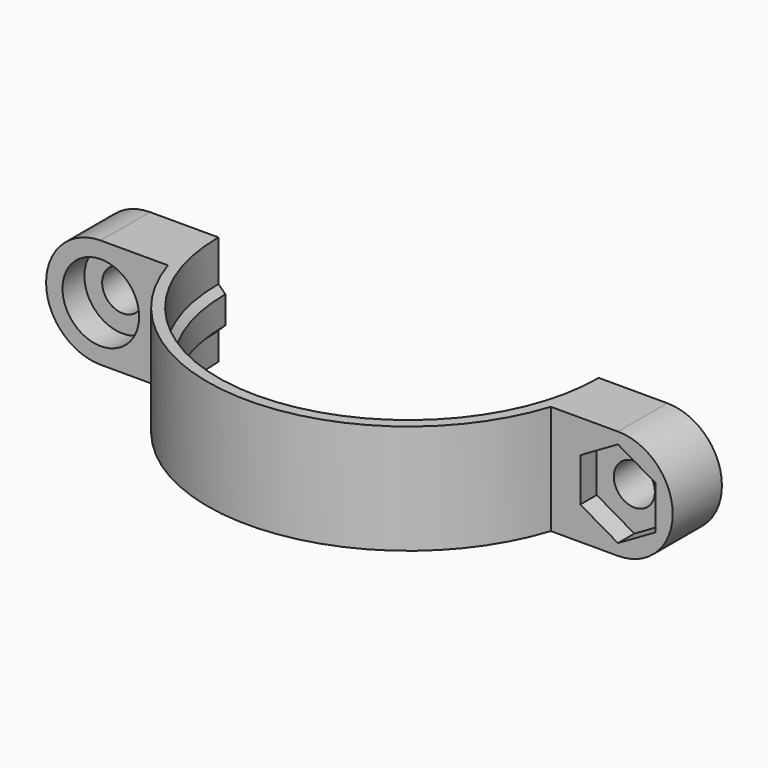
from build123d import *

# Parameters (mm, degrees)
REVOLUTION_ANGLE = -180
SKETCH001_R      = 1.5
PAD_DEPTH        = 4.5
POCKET_DEPTH     = 2
SKETCH003_R      = 2.8
POCKET001_DEPTH  = 2


with BuildPart() as part:
    # Sketch → Revolution (revolve)
    with BuildSketch(Plane.XZ):
        Polygon((13.4, 4.5), (13.4, 2.5), (13.9, 2), (13.9, 0), (14.7, 0), (14.7, 8), (13.9, 8), (13.9, 5), align=None)
    revolve(axis=Axis((0, 0, 0), (0, 0, 1)), revolution_arc=REVOLUTION_ANGLE)

    # Sketch001 (on Face10 of Revolution) → Pad (new body)
    with BuildSketch(Plane(origin=(0, 0, 0), x_dir=(1, 0, 0), z_dir=(0, 1, 0))):
        with BuildLine():
            ThreePointArc((18.9, -8), (22.9, -4), (18.9, 0))
            Line((18.9, 0), (13.9, 0))
            Line((13.9, 0), (13.9, -8))
            Line((13.9, -8), (18.9, -8))
        make_face()
        with Locations((18.9, -4)):
            Circle(SKETCH001_R, mode=Mode.SUBTRACT)
        with BuildLine():
            ThreePointArc((-18.9, 0), (-22.9, -4), (-18.9, -8))
            Line((-18.9, -8), (-13.9, -8))
            Line((-13.9, -8), (-13.9, 0))
            Line((-13.9, 0), (-18.9, 0))
        make_face()
        with Locations((-18.9, -4)):
            Circle(SKETCH001_R, mode=Mode.SUBTRACT)
    extrude(amount=-PAD_DEPTH)

    # Sketch002 → Pocket (cut)
    with BuildSketch(Plane.XZ.offset(5)):
        Polygon((21.65, 2.412287), (21.65, 5.587713), (18.9, 7.175426), (16.15, 5.587713), (16.15, 2.412287), (18.9, 0.824574), align=None)
    extrude(amount=-POCKET_DEPTH, mode=Mode.SUBTRACT)

    # Sketch003 (on Face28 of Pocket) → Pocket001 (cut)
    with BuildSketch(Plane.XZ.offset(4.5)):
        with Locations((-18.9, 4)):
            Circle(SKETCH003_R)
    extrude(amount=-POCKET001_DEPTH, mode=Mode.SUBTRACT)


solid = part.part
